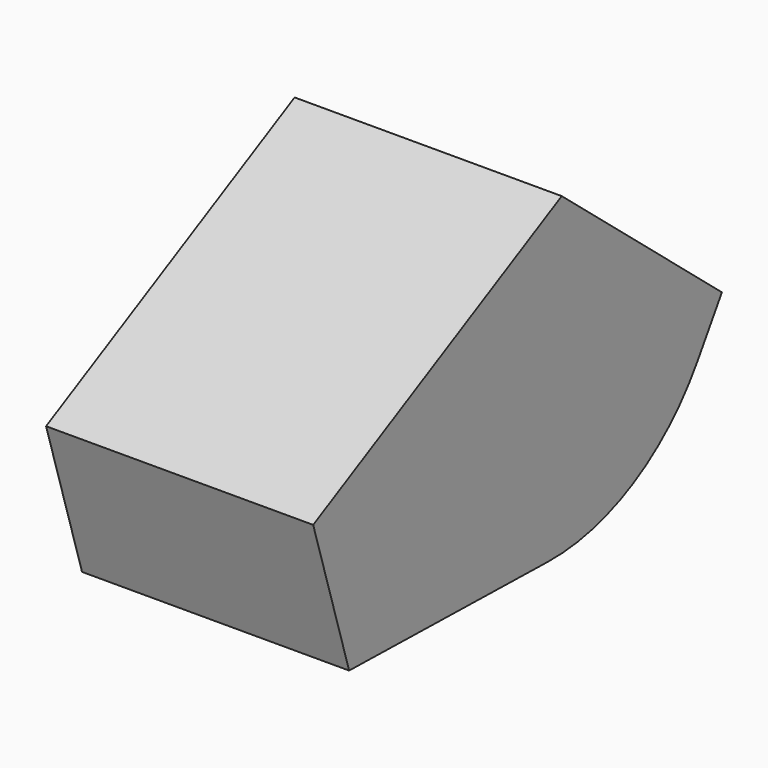
from build123d import *

# Parameters (mm, degrees)
F1_DEPTH = 49.8911
F2_R     = 40.29989


with BuildPart() as f1:
    # F0 (on Right) → F1 (new body)
    with BuildSketch(Plane.YZ):
        Polygon((33.577301, 34.130178), (-24.453036, 3.655124), (-16.058711, -23.717679), (53.103238, -25.177559), (70.986792, 3.107668), align=None)
    extrude(amount=F1_DEPTH)

    # F2
    f2_edges = [f1.edges().sort_by_distance(p)[0] for p in [
        (24.94555, 53.103238, -25.177559),
    ]]
    fillet(f2_edges, radius=F2_R)


solid = f1.part
